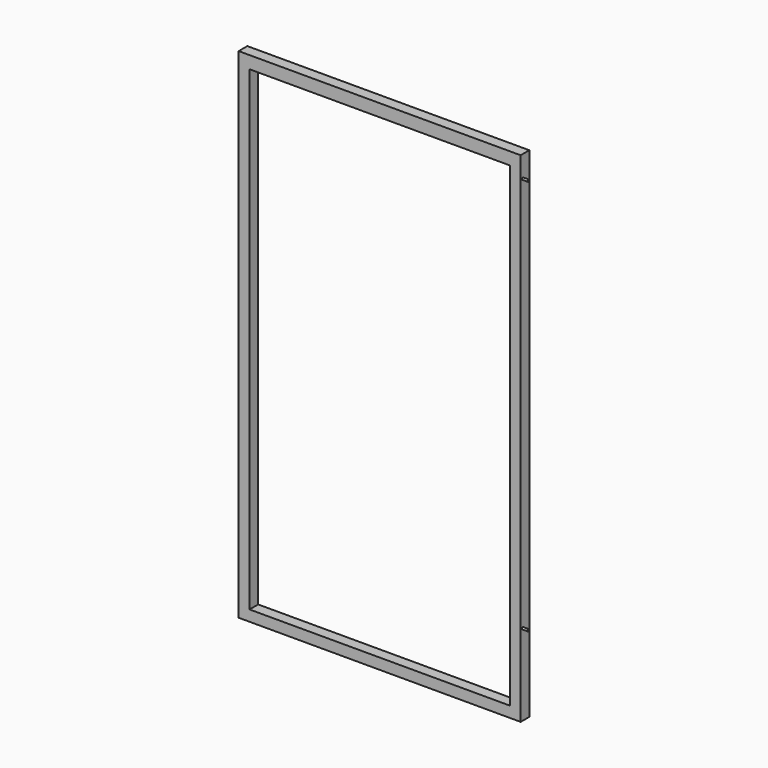
from build123d import *

# Parameters (mm, degrees)
F0_W     = 1219.2
F0_H     = 58.341584
F0_H_2   = 50.8
F1_DEPTH = 50.8
F2_R     = 4.7625
F3_DEPTH = 25.4


with BuildPart() as f1:
    # F0 (on Front) → F1 (new body)
    with BuildSketch(Plane.XZ):
        Polygon((1206.330058, 2233.256182), (1155.530058, 2233.256182), (1155.530058, 2174.914598), (1155.530058, -52.743818), (1155.530058, -103.543818), (1206.330058, -103.543818), align=None)
        with Locations((545.930058, 2204.08539)):
            Rectangle(F0_W, F0_H)
        Polygon((-63.669942, 2233.256182), (-114.469942, 2233.256182), (-114.469942, -103.543818), (-63.669942, -103.543818), (-63.669942, -52.743818), (-63.669942, 2174.914598), align=None)
        with Locations((545.930058, -78.143818)):
            Rectangle(F0_W, F0_H_2)
    extrude(amount=F1_DEPTH)

    # F2 (on face) → F3 (join)
    with BuildSketch(Plane.YZ.offset(1206.330058)):
        with Locations((-38.1, 2131.656182)):
            Circle(F2_R)
        with Locations((-38.1, 277.456182)):
            Circle(F2_R)
    extrude(amount=F3_DEPTH)


solid = f1.part
